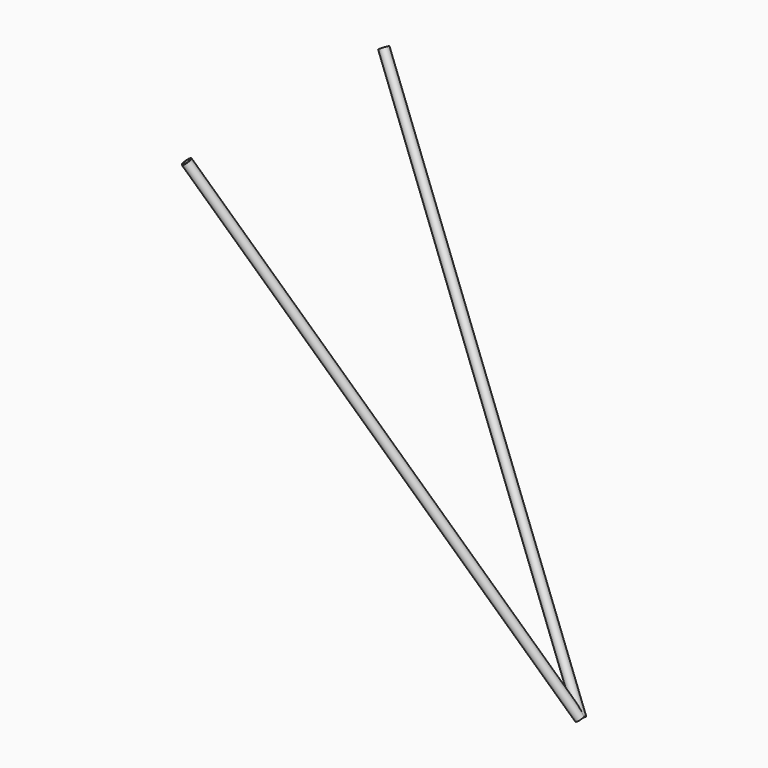
from build123d import *

# Parameters (mm, degrees)
F7_R     = 4.7625
F7_R_2   = 3.5179
F8_DEPTH = 563.9816


with BuildPart() as f8:
    # F7 (on 3pt) → F8 (new body)
    with BuildSketch(Plane(origin=(-15.3938434104, -6.414101421, 23.1620329091), x_dir=(0.8420764353, -0.1439434241, 0.5197956981), z_dir=(0.5393582085, 0.2247325869, -0.8115343415))):
        with Locations((18.2808148576, 122.3937127784)):
            Circle(F7_R)
        with Locations((18.2808148576, 122.3937127784)):
            Circle(F7_R_2, mode=Mode.SUBTRACT)
    extrude(amount=F8_DEPTH)


with BuildPart() as f9_1:
    # F9: instance of F8
    add(f8.part.mirror(Plane.XZ))


solid = Compound([f8.part, f9_1.part])
